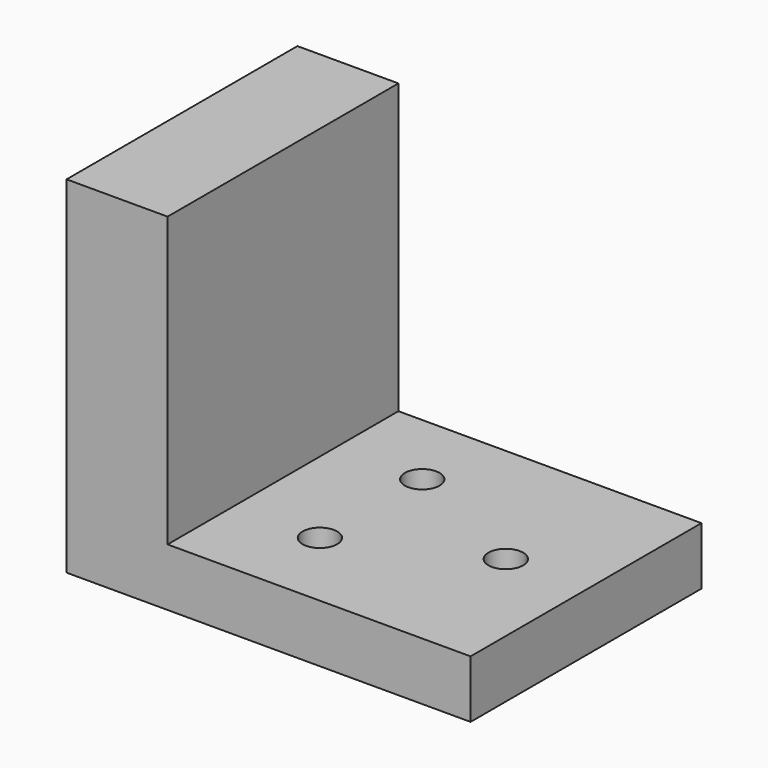
from build123d import *

# Parameters (mm, degrees)
F1_DEPTH   = 25
F2_W       = 2
F2_H       = 17
F1_FACE1_W = 8.7500010695
F1_FACE1_H = 25
F3_DEPTH   = 25
F4_R       = 1.5
F5_DEPTH   = 25


with BuildPart() as f1:
    # F0 (on Front) → F1 (new body)
    with BuildSketch(Plane.XZ):
        Polygon((-40.3388904698, 28.1480183138), (-40.3388904698, -1.8519816862), (-5.3388904698, -1.8519816862), (-5.3388904698, 3.1480183138), (-31.5888894002, 3.1480183138), (-31.5888894002, 28.1480183138), align=None)
    extrude(amount=F1_DEPTH)

    # F2 (on face) + F1_face1 (on face) → F3 (cut)
    with BuildSketch(Plane(origin=(0, 0, -1.8519816862), x_dir=(1, 0, 0), z_dir=(0, 0, -1))):
        with Locations((-36.3388904698, 12.5)):
            Rectangle(F2_W, F2_H)
    with BuildSketch(Plane(origin=(-35.963889935, -12.5, 28.1480183138), x_dir=(1, 0, 0), z_dir=(0, 0, 1))):
        Rectangle(F1_FACE1_W, F1_FACE1_H)
    extrude(amount=-F3_DEPTH, dir=(0, 0, -1), mode=Mode.SUBTRACT)

    # F4 (on face) → F5 (cut)
    with BuildSketch(Plane.XY.offset(3.1480183138)):
        with Locations((-12.3882628977, -12.3733161017)):
            Circle(F4_R)
        with Locations((-24.1478532553, -17.8078263998)):
            Circle(F4_R)
        with Locations((-24.0995399654, -6.7834341899)):
            Circle(F4_R)
    extrude(amount=-F5_DEPTH, mode=Mode.SUBTRACT)


solid = f1.part
